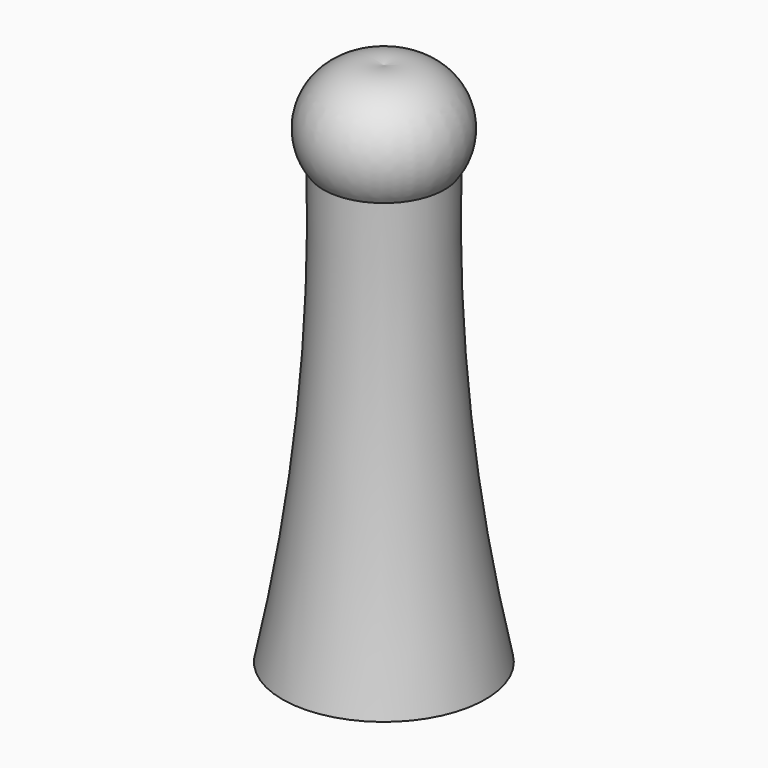
from build123d import *


with BuildPart() as f1:
    # F0 (on Front) → F1 (revolve)
    with BuildSketch(Plane.XZ):
        with BuildLine():
            Line((0, 0), (0, 47.036204))
            ThreePointArc((0, 47.036204), (-5.571841, 44.942349), (-5.429627, 38.991768))
            ThreePointArc((-5.429627, 38.991768), (-6.110309, 19.388238), (-9.086538, 0))
            Line((-9.086538, 0), (0, 0))
        make_face()
    revolve(axis=Axis((0, 0, 23.518102), (0, 0, 1)))


solid = f1.part
